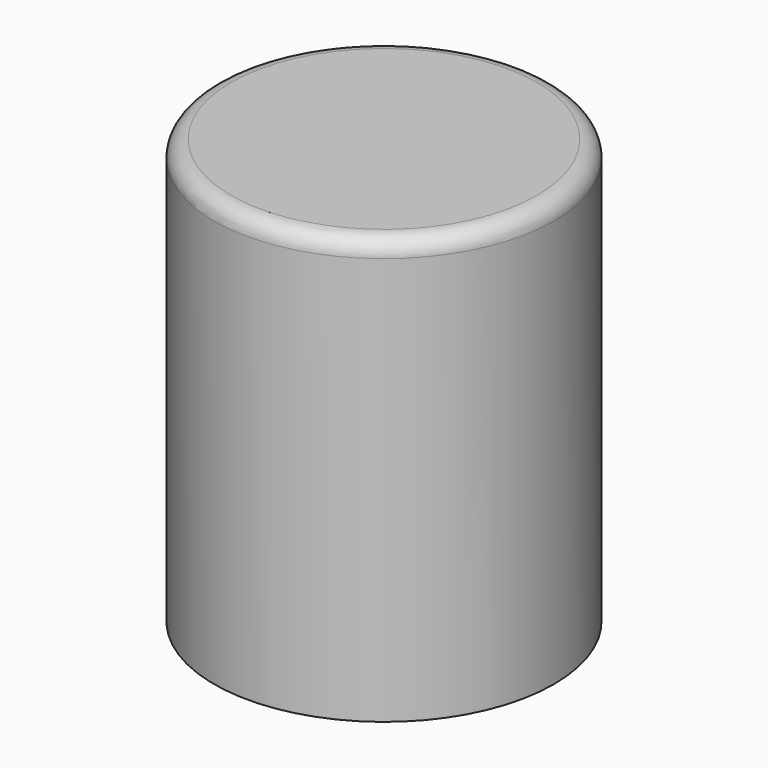
from build123d import *

# Parameters (mm, degrees)
F0_R     = 10
F1_DEPTH = 25
F2_T     = -1
F3_R     = 1


with BuildPart() as f1:
    # F0 (on Top) → F1 (new body)
    with BuildSketch(Plane.XY):
        Circle(F0_R)
    extrude(amount=F1_DEPTH)

    # F2
    f2_openings = [f1.faces().sort_by_distance(p)[0] for p in [
        (0, 0, 0),
    ]]
    offset(amount=F2_T, openings=f2_openings)

    # F3
    f3_edges = [f1.edges().sort_by_distance(p)[0] for p in [
        (-10, 0, 25),
    ]]
    fillet(f3_edges, radius=F3_R)


solid = f1.part
